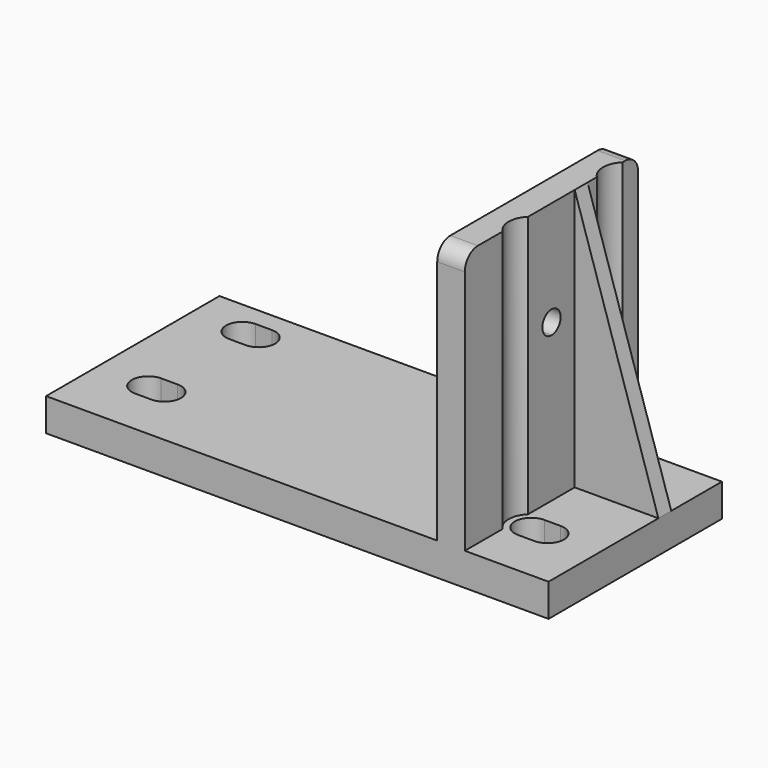
from build123d import *

# Parameters (mm, degrees)
F0_W      = 34
F0_H      = 22
F0_R      = 4
F1_DEPTH  = 30.2
F3_DEPTH  = 5
F4_W      = 7.215074
F4_H      = 33.098936
F5_DEPTH  = 40
F7_DEPTH  = 25
F8_R      = 2.5
F9_R      = 3.434689
F10_DEPTH = 40
F14_W     = 3
F14_H     = 33.098936
F15_DEPTH = 40
F16_W     = 12.784926
F16_H     = 2.454489
F17_DEPTH = 40
F19_DEPTH = 25


with BuildPart() as f1:
    # F0 (on Front) → F1 (new body)
    with BuildSketch(Plane.XZ):
        with Locations((-19.066667, -4.857694)):
            Rectangle(F0_W, F0_H)
        with Locations((-19.066667, -4.857694)):
            Circle(F0_R, mode=Mode.SUBTRACT)
        with Locations((17.733333, -4.857694)):
            Rectangle(F0_W, F0_H)
        with Locations((17.733333, -4.857694)):
            Circle(F0_R, mode=Mode.SUBTRACT)
    extrude(amount=F1_DEPTH)


with BuildPart() as f3:
    # F2 (on face) → F3 (new body)
    with BuildSketch(Plane.XY.offset(6.142306)):
        Polygon((-2.548193, 1.449468), (-40.917817, 1.449468), (-40.917817, -31.649468), (35.821432, -31.649468), (35.821432, 1.449468), align=None)
        with BuildLine():
            Line((-30.548193, -24.5), (-33.048193, -24.5))
            ThreePointArc((-33.048193, -24.5), (-35.548193, -22), (-33.048193, -19.5))
            Line((-33.048193, -19.5), (-30.548193, -19.5))
            ThreePointArc((-30.548193, -19.5), (-28.048193, -22), (-30.548193, -24.5))
        make_face(mode=Mode.SUBTRACT)
        with BuildLine():
            ThreePointArc((27.951807, -19.5), (30.451807, -22), (27.951807, -24.5))
            Line((27.951807, -24.5), (25.451807, -24.5))
            ThreePointArc((25.451807, -24.5), (22.951807, -22), (25.451807, -19.5))
            Line((25.451807, -19.5), (27.951807, -19.5))
        make_face(mode=Mode.SUBTRACT)
        with BuildLine():
            Line((-30.548193, -6.5), (-33.048193, -6.5))
            ThreePointArc((-33.048193, -6.5), (-35.548193, -4), (-33.048193, -1.5))
            Line((-33.048193, -1.5), (-30.548193, -1.5))
            ThreePointArc((-30.548193, -1.5), (-28.048193, -4), (-30.548193, -6.5))
        make_face(mode=Mode.SUBTRACT)
        with BuildLine():
            Line((25.451807, -1.5), (27.951807, -1.5))
            ThreePointArc((27.951807, -1.5), (30.451807, -4), (27.951807, -6.5))
            Line((27.951807, -6.5), (25.451807, -6.5))
            ThreePointArc((25.451807, -6.5), (22.951807, -4), (25.451807, -1.5))
        make_face(mode=Mode.SUBTRACT)
    extrude(amount=F3_DEPTH)

    # F4 (on face) → F5 (join)
    with BuildSketch(Plane.XY.offset(11.142306)):
        with Locations((19.428969, -15.1)):
            Rectangle(F4_W, F4_H)
    extrude(amount=F5_DEPTH)

    # F6 (on face) → F7 (cut)
    with BuildSketch(Plane(origin=(15.821432, 0, 0), x_dir=(0, -1, 0), z_dir=(-1, 0, 0))):
        with BuildLine():
            ThreePointArc((15.1, 33.392306), (16.337437, 33.904869), (16.85, 35.142306))
            ThreePointArc((16.85, 35.142306), (13.862563, 36.379742), (15.1, 33.392306))
        make_face()
    extrude(amount=-F7_DEPTH, mode=Mode.SUBTRACT)

    # F8
    f8_edges = [f3.edges().sort_by_distance(p)[0] for p in [
        (19.428969, 1.449468, 51.142306),
        (19.428969, -31.649468, 51.142306),
    ]]
    fillet(f8_edges, radius=F8_R)

    # F9 (on face) → F10 (cut, through all)
    with BuildSketch(Plane.XY.offset(51.142306)):
        with Locations((25.451807, -4)):
            Circle(F9_R)
        with Locations((25.451807, -22)):
            Circle(F9_R)
    extrude(amount=-F10_DEPTH, mode=Mode.SUBTRACT)

    # F14 (on face) → F15 (cut, through all)
    with BuildSketch(Plane.XY.offset(51.142306)):
        with Locations((17.321432, -15.1)):
            Rectangle(F14_W, F14_H)
    extrude(amount=-F15_DEPTH, mode=Mode.SUBTRACT)

    # F16 (on face) → F17 (join, through all)
    with BuildSketch(Plane.XY.offset(11.142306)):
        with Locations((29.428969, -9.451033)):
            Rectangle(F16_W, F16_H)
    extrude(amount=F17_DEPTH)

    # F18 (on face) → F19 (cut)
    with BuildSketch(Plane.XZ.offset(10.678278)):
        Polygon((35.821432, 51.142306), (23.036506, 51.142306), (35.821432, 11.142306), align=None)
    extrude(amount=-F19_DEPTH, mode=Mode.SUBTRACT)


with BuildPart() as f11_1:
    # F11: copy of F3
    add(f3.part)


solid = f3.part
